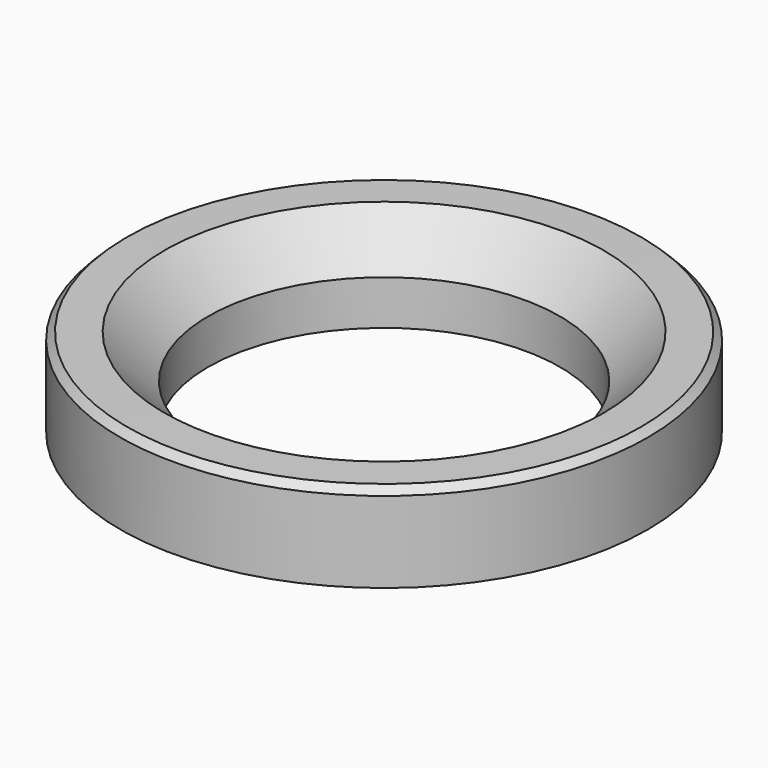
from build123d import *

# Parameters (mm, degrees)
F2_SIZE = 12.7
F3_SIZE = 2


with BuildPart() as f1:
    # F0 (on Front) → F1 (revolve)
    with BuildSketch(Plane.XZ):
        Polygon((50.756192, 25.59499), (50.800075, 0), (76.2, 0), (76.2, 25.4), align=None)
    revolve(axis=Axis((0, 0, 20.958871), (0, 0, 1)))

    # F2
    f2_edges = [f1.edges().sort_by_distance(p)[0] for p in [
        (-50.756192, 0, 25.59499),
    ]]
    chamfer(f2_edges, length=F2_SIZE)

    # F3
    f3_edges = [f1.edges().sort_by_distance(p)[0] for p in [
        (-76.2, 0, 25.4),
    ]]
    chamfer(f3_edges, length=F3_SIZE)


solid = f1.part
